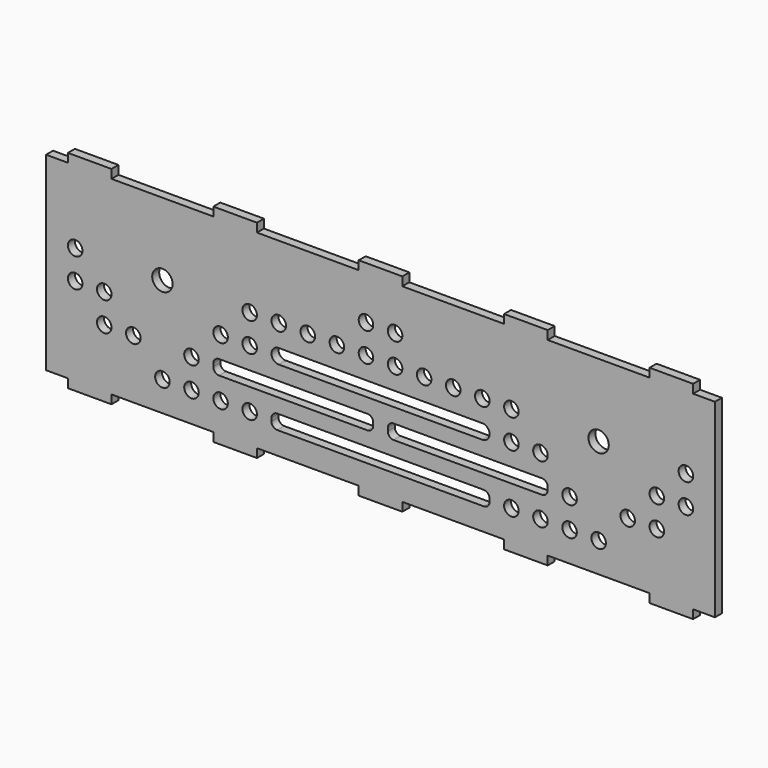
from build123d import *

# Parameters (mm, degrees)
F0_R     = 2.5
F0_R_2   = 3.5
F0_W     = 15
F0_H     = 3
F1_DEPTH = 3


with BuildPart() as f1:
    # F0 (on Front) → F1 (new body)
    with BuildSketch(Plane.XZ):
        Polygon((107.5, -32.625), (115, -32.625), (115, 32.625), (107.5, 32.625), (92.5, 32.625), (57.5, 32.625), (42.5, 32.625), (7.5, 32.625), (-7.5, 32.625), (-42.5, 32.625), (-57.5, 32.625), (-92.5, 32.625), (-107.5, 32.625), (-115, 32.625), (-115, -32.625), (-107.5, -32.625), (-92.5, -32.625), (-57.5, -32.625), (-42.5, -32.625), (-7.5, -32.625), (7.5, -32.625), (42.5, -32.625), (57.5, -32.625), (92.5, -32.625), align=None)
        with Locations((-75, -22.375)):
            Circle(F0_R, mode=Mode.SUBTRACT)
        with Locations((-65, -22.375)):
            Circle(F0_R, mode=Mode.SUBTRACT)
        with Locations((-55, -22.375)):
            Circle(F0_R, mode=Mode.SUBTRACT)
        with Locations((-45, -22.375)):
            Circle(F0_R, mode=Mode.SUBTRACT)
        with Locations((-95, -12.375)):
            Circle(F0_R, mode=Mode.SUBTRACT)
        with Locations((-85, -12.375)):
            Circle(F0_R, mode=Mode.SUBTRACT)
        with Locations((-65, -12.375)):
            Circle(F0_R, mode=Mode.SUBTRACT)
        with Locations((-105, -2.375)):
            Circle(F0_R, mode=Mode.SUBTRACT)
        with Locations((-95, -2.375)):
            Circle(F0_R, mode=Mode.SUBTRACT)
        with BuildLine():
            Line((-55.5, -9.875), (-55, -9.875))
            Line((-55, -9.875), (-45, -9.875))
            Line((-45, -9.875), (-35, -9.875))
            Line((-35, -9.875), (-25, -9.875))
            Line((-25, -9.875), (-15, -9.875))
            Line((-15, -9.875), (-5, -9.875))
            Line((-5, -9.875), (-4.5, -9.875))
            ThreePointArc((-4.5, -9.875), (-3.085786, -10.460786), (-2.5, -11.875))
            Line((-2.5, -11.875), (-2.5, -12.375))
            Line((-2.5, -12.375), (-2.5, -12.875))
            ThreePointArc((-2.5, -12.875), (-3.085786, -14.289214), (-4.5, -14.875))
            Line((-4.5, -14.875), (-5, -14.875))
            Line((-5, -14.875), (-15, -14.875))
            Line((-15, -14.875), (-25, -14.875))
            Line((-25, -14.875), (-35, -14.875))
            Line((-35, -14.875), (-45, -14.875))
            Line((-45, -14.875), (-55, -14.875))
            Line((-55, -14.875), (-55.5, -14.875))
            ThreePointArc((-55.5, -14.875), (-56.914214, -14.289214), (-57.5, -12.875))
            Line((-57.5, -12.875), (-57.5, -12.375))
            Line((-57.5, -12.375), (-57.5, -11.875))
            ThreePointArc((-57.5, -11.875), (-56.914214, -10.460786), (-55.5, -9.875))
        make_face(mode=Mode.SUBTRACT)
        with Locations((-55, -2.375)):
            Circle(F0_R, mode=Mode.SUBTRACT)
        with Locations((-45, -2.375)):
            Circle(F0_R, mode=Mode.SUBTRACT)
        with BuildLine():
            Line((-35.5, -19.875), (-35, -19.875))
            Line((-35, -19.875), (-25, -19.875))
            Line((-25, -19.875), (-15, -19.875))
            Line((-15, -19.875), (-5, -19.875))
            Line((-5, -19.875), (5, -19.875))
            Line((5, -19.875), (15, -19.875))
            Line((15, -19.875), (25, -19.875))
            Line((25, -19.875), (35, -19.875))
            Line((35, -19.875), (35.5, -19.875))
            ThreePointArc((35.5, -19.875), (36.914214, -20.460786), (37.5, -21.875))
            Line((37.5, -21.875), (37.5, -22.375))
            Line((37.5, -22.375), (37.5, -22.875))
            ThreePointArc((37.5, -22.875), (36.914214, -24.289214), (35.5, -24.875))
            Line((35.5, -24.875), (35, -24.875))
            Line((35, -24.875), (25, -24.875))
            Line((25, -24.875), (15, -24.875))
            Line((15, -24.875), (5, -24.875))
            Line((5, -24.875), (-5, -24.875))
            Line((-5, -24.875), (-15, -24.875))
            Line((-15, -24.875), (-25, -24.875))
            Line((-25, -24.875), (-35, -24.875))
            Line((-35, -24.875), (-35.5, -24.875))
            ThreePointArc((-35.5, -24.875), (-36.914214, -24.289214), (-37.5, -22.875))
            Line((-37.5, -22.875), (-37.5, -22.375))
            Line((-37.5, -22.375), (-37.5, -21.875))
            ThreePointArc((-37.5, -21.875), (-36.914214, -20.460786), (-35.5, -19.875))
        make_face(mode=Mode.SUBTRACT)
        with Locations((45, -22.375)):
            Circle(F0_R, mode=Mode.SUBTRACT)
        with Locations((55, -22.375)):
            Circle(F0_R, mode=Mode.SUBTRACT)
        with Locations((65, -22.375)):
            Circle(F0_R, mode=Mode.SUBTRACT)
        with Locations((75, -22.375)):
            Circle(F0_R, mode=Mode.SUBTRACT)
        with BuildLine():
            Line((4.5, -9.875), (5, -9.875))
            Line((5, -9.875), (15, -9.875))
            Line((15, -9.875), (25, -9.875))
            Line((25, -9.875), (35, -9.875))
            Line((35, -9.875), (45, -9.875))
            Line((45, -9.875), (55, -9.875))
            Line((55, -9.875), (55.5, -9.875))
            ThreePointArc((55.5, -9.875), (56.914214, -10.460786), (57.5, -11.875))
            Line((57.5, -11.875), (57.5, -12.375))
            Line((57.5, -12.375), (57.5, -12.875))
            ThreePointArc((57.5, -12.875), (56.914214, -14.289214), (55.5, -14.875))
            Line((55.5, -14.875), (55, -14.875))
            Line((55, -14.875), (45, -14.875))
            Line((45, -14.875), (35, -14.875))
            Line((35, -14.875), (25, -14.875))
            Line((25, -14.875), (15, -14.875))
            Line((15, -14.875), (5, -14.875))
            Line((5, -14.875), (4.5, -14.875))
            ThreePointArc((4.5, -14.875), (3.085786, -14.289214), (2.5, -12.875))
            Line((2.5, -12.875), (2.5, -12.375))
            Line((2.5, -12.375), (2.5, -11.875))
            ThreePointArc((2.5, -11.875), (3.085786, -10.460786), (4.5, -9.875))
        make_face(mode=Mode.SUBTRACT)
        with BuildLine():
            ThreePointArc((-35, -4.875), (-37.5, -2.375), (-35, 0.125))
            Line((-35, 0.125), (-25, 0.125))
            Line((-25, 0.125), (-15, 0.125))
            Line((-15, 0.125), (-5, 0.125))
            Line((-5, 0.125), (5, 0.125))
            Line((5, 0.125), (15, 0.125))
            Line((15, 0.125), (25, 0.125))
            Line((25, 0.125), (35, 0.125))
            ThreePointArc((35, 0.125), (36.767767, -0.607233), (37.5, -2.375))
            ThreePointArc((37.5, -2.375), (36.767767, -4.142767), (35, -4.875))
            Line((35, -4.875), (25, -4.875))
            Line((25, -4.875), (15, -4.875))
            Line((15, -4.875), (5, -4.875))
            Line((5, -4.875), (-5, -4.875))
            Line((-5, -4.875), (-15, -4.875))
            Line((-15, -4.875), (-25, -4.875))
            Line((-25, -4.875), (-35, -4.875))
        make_face(mode=Mode.SUBTRACT)
        with Locations((45, -2.375)):
            Circle(F0_R, mode=Mode.SUBTRACT)
        with Locations((55, -2.375)):
            Circle(F0_R, mode=Mode.SUBTRACT)
        with Locations((65, -12.375)):
            Circle(F0_R, mode=Mode.SUBTRACT)
        with Locations((85, -12.375)):
            Circle(F0_R, mode=Mode.SUBTRACT)
        with Locations((95, -12.375)):
            Circle(F0_R, mode=Mode.SUBTRACT)
        with Locations((95, -2.375)):
            Circle(F0_R, mode=Mode.SUBTRACT)
        with Locations((105, -2.375)):
            Circle(F0_R, mode=Mode.SUBTRACT)
        with Locations((-105, 7.625)):
            Circle(F0_R, mode=Mode.SUBTRACT)
        with Locations((-75, 7.625)):
            Circle(F0_R_2, mode=Mode.SUBTRACT)
        with Locations((-45, 7.625)):
            Circle(F0_R, mode=Mode.SUBTRACT)
        with Locations((-35, 7.625)):
            Circle(F0_R, mode=Mode.SUBTRACT)
        with Locations((-25, 7.625)):
            Circle(F0_R, mode=Mode.SUBTRACT)
        with Locations((-15, 7.625)):
            Circle(F0_R, mode=Mode.SUBTRACT)
        with Locations((-5, 7.625)):
            Circle(F0_R, mode=Mode.SUBTRACT)
        with Locations((-5, 17.625)):
            Circle(F0_R, mode=Mode.SUBTRACT)
        with Locations((5, 7.625)):
            Circle(F0_R, mode=Mode.SUBTRACT)
        with Locations((15, 7.625)):
            Circle(F0_R, mode=Mode.SUBTRACT)
        with Locations((25, 7.625)):
            Circle(F0_R, mode=Mode.SUBTRACT)
        with Locations((35, 7.625)):
            Circle(F0_R, mode=Mode.SUBTRACT)
        with Locations((45, 7.625)):
            Circle(F0_R, mode=Mode.SUBTRACT)
        with Locations((5, 17.625)):
            Circle(F0_R, mode=Mode.SUBTRACT)
        with Locations((75, 7.625)):
            Circle(F0_R_2, mode=Mode.SUBTRACT)
        with Locations((105, 7.625)):
            Circle(F0_R, mode=Mode.SUBTRACT)
        with Locations((100, -34.125)):
            Rectangle(F0_W, F0_H)
        with Locations((100, 34.125)):
            Rectangle(F0_W, F0_H)
        with Locations((50, -34.125)):
            Rectangle(F0_W, F0_H)
        with Locations((50, 34.125)):
            Rectangle(F0_W, F0_H)
        with Locations((0, -34.125)):
            Rectangle(F0_W, F0_H)
        with Locations((0, 34.125)):
            Rectangle(F0_W, F0_H)
        with Locations((-50, -34.125)):
            Rectangle(F0_W, F0_H)
        with Locations((-50, 34.125)):
            Rectangle(F0_W, F0_H)
        with Locations((-100, -34.125)):
            Rectangle(F0_W, F0_H)
        with Locations((-100, 34.125)):
            Rectangle(F0_W, F0_H)
    extrude(amount=F1_DEPTH)


solid = f1.part
